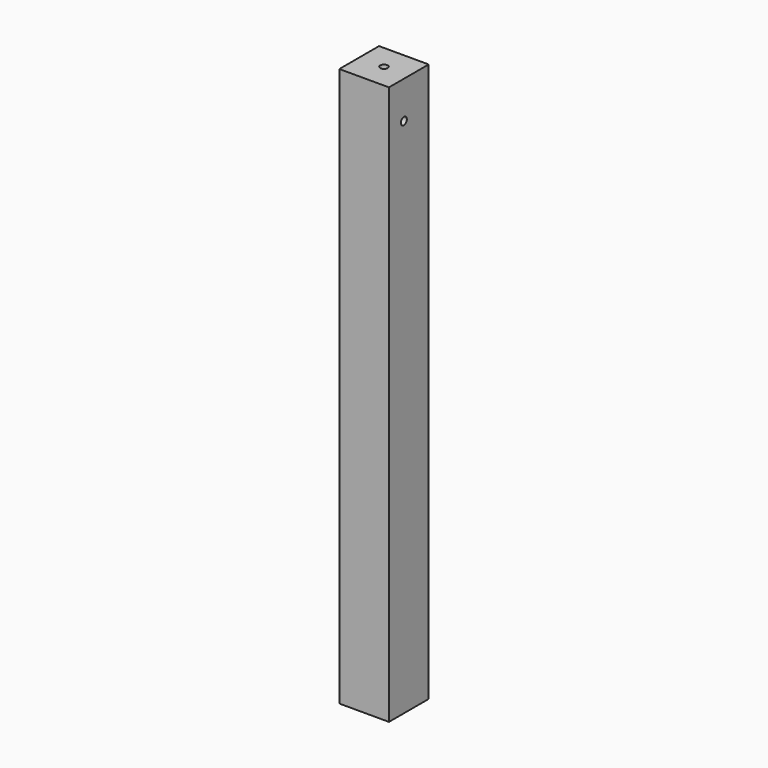
from build123d import *

# Parameters (mm, degrees)
F0_W     = 40
F0_H     = 40
F1_DEPTH = 450
F3_R     = 3
F4_DEPTH = 12
F5_R     = 3
F6_DEPTH = 12
F7_R     = 3
F8_DEPTH = 12


with BuildPart() as f1:
    # F0 (on Top) → F1 (new body)
    with BuildSketch(Plane.XY):
        with Locations((20, 20)):
            Rectangle(F0_W, F0_H)
    extrude(amount=F1_DEPTH)

    # F3 (on face) → F4 (cut)
    with BuildSketch(Plane.YZ.offset(40)):
        with Locations((15, 420)):
            Circle(F3_R)
    extrude(amount=-F4_DEPTH, mode=Mode.SUBTRACT)

    # F5 (on face) → F6 (cut)
    with BuildSketch(Plane(origin=(0, 40, 0), x_dir=(-1, 0, 0), z_dir=(0, 1, 0))):
        with Locations((-15, 420)):
            Circle(F5_R)
    extrude(amount=-F6_DEPTH, mode=Mode.SUBTRACT)

    # F7 (on face) → F8 (cut)
    with BuildSketch(Plane.XY.offset(450)):
        with Locations((20, 20)):
            Circle(F7_R)
    extrude(amount=-F8_DEPTH, mode=Mode.SUBTRACT)


solid = f1.part
